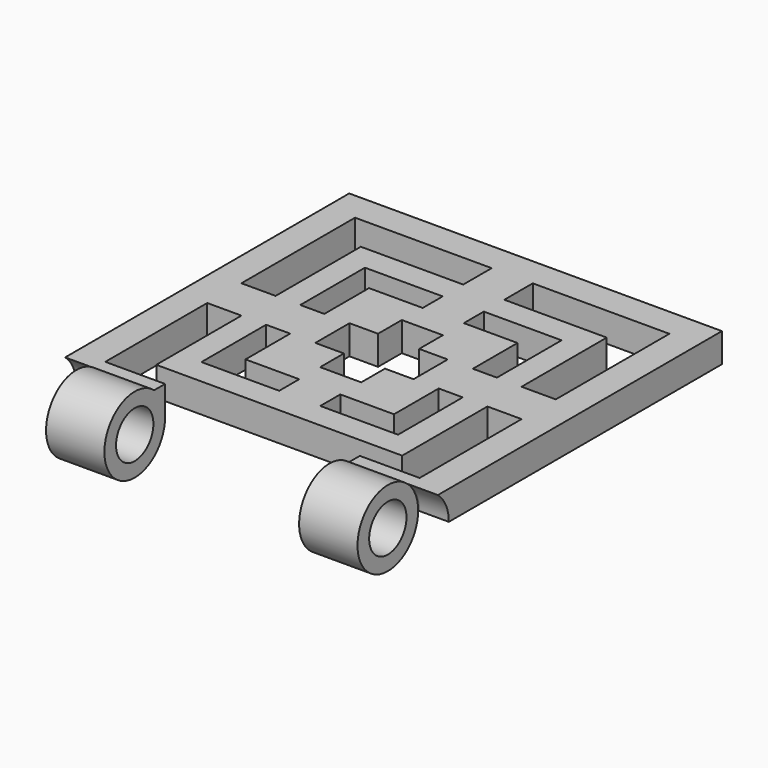
from build123d import *

# Parameters (mm, degrees)
F0_W      = 7.0402130931
F0_H      = 6.0935864692
F0_H_2    = 4.393223295
F0_W_2    = 4.2261239089
F0_H_3    = 7.3185805312
F0_W_3    = 4.3096756666
F0_H_4    = 4.4800786584
F0_H_5    = 4.2855439132
F0_W_4    = 5.8618125553
F0_W_5    = 4.1225401893
F0_W_6    = 4.8947411333
F0_H_6    = 5.0882773987
F1_DEPTH  = 5
F2_R      = 6.5
F2_R_2    = 4
F3_DEPTH  = 63.87
F4_R      = 6.5
F4_R_2    = 4
F5_DEPTH  = 5.25
F6_R      = 6.5
F6_R_2    = 4
F7_DEPTH  = 5.25
F9_R      = 6.5
F9_R_2    = 4
F10_DEPTH = 33.37
F12_DEPTH = 10.25
F14_DEPTH = 10.25


with BuildPart() as f1:
    # F0 (on Top) → F1 (new body)
    with BuildSketch(Plane.XY):
        Polygon((0, 61), (0, 0), (5, 0), (5, 24.3407097344), (5, 31.6592902656), (5, 56), (28.4148934534, 56), (35.4551065466, 56), (58.87, 56), (58.87, 31.6592902656), (58.87, 24.3407097344), (58.87, 0), (63.87, 0), (63.87, 61), align=None)
        Polygon((10.8618125553, 49.9064135308), (10.8618125553, 31.6592902656), (15.0879364642, 31.6592902656), (15.0879364642, 45.5131902358), (28.4148934534, 45.5131902358), (28.4148934534, 49.9064135308), align=None)
        with Locations((31.935, 52.9532067654)):
            Rectangle(F0_W, F0_H)
        Polygon((48.7820635358, 31.6592902656), (53.0081874447, 31.6592902656), (53.0081874447, 49.9064135308), (35.4551065466, 49.9064135308), (35.4551065466, 45.5131902358), (48.7820635358, 45.5131902358), align=None)
        with Locations((31.935, 47.7098018833)):
            Rectangle(F0_W, F0_H_2)
        with Locations((12.9748745097, 28)):
            Rectangle(F0_W_2, F0_H_3)
        Polygon((10.8618125553, 6.0935864692), (28.4148934534, 6.0935864692), (28.4148934534, 10.4868097642), (15.0879364642, 10.4868097642), (15.0879364642, 24.3407097344), (10.8618125553, 24.3407097344), align=None)
        with Locations((31.935, 8.2901981167)):
            Rectangle(F0_W, F0_H_2)
        Polygon((35.4551065466, 10.4868097642), (35.4551065466, 6.0935864692), (53.0081874447, 6.0935864692), (53.0081874447, 24.3407097344), (48.7820635358, 24.3407097344), (48.7820635358, 10.4868097642), align=None)
        with Locations((50.8951254903, 28)):
            Rectangle(F0_W_2, F0_H_3)
        Polygon((40.3498476799, 31.6592902656), (44.6595233465, 31.6592902656), (44.6595233465, 41.2276463227), (35.4551065466, 41.2276463227), (35.4551065466, 36.7475676643), (40.3498476799, 36.7475676643), align=None)
        with Locations((42.5046855132, 28)):
            Rectangle(F0_W_3, F0_H_3)
        Polygon((35.4551065466, 19.2524323357), (35.4551065466, 14.7723536773), (44.6595233465, 14.7723536773), (44.6595233465, 24.3407097344), (40.3498476799, 24.3407097344), (40.3498476799, 19.2524323357), align=None)
        Polygon((19.2104766535, 14.7723536773), (28.4148934534, 14.7723536773), (28.4148934534, 19.2524323357), (23.5201523201, 19.2524323357), (23.5201523201, 24.3407097344), (19.2104766535, 24.3407097344), align=None)
        with Locations((31.935, 17.0123930065)):
            Rectangle(F0_W, F0_H_4)
        with Locations((31.935, 12.6295817207)):
            Rectangle(F0_W, F0_H_5)
        with Locations((21.3653144868, 28)):
            Rectangle(F0_W_3, F0_H_3)
        Polygon((19.2104766535, 41.2276463227), (19.2104766535, 31.6592902656), (23.5201523201, 31.6592902656), (23.5201523201, 36.7475676643), (28.4148934534, 36.7475676643), (28.4148934534, 41.2276463227), align=None)
        with Locations((31.935, 38.9876069935)):
            Rectangle(F0_W, F0_H_4)
        with Locations((55.9390937224, 28)):
            Rectangle(F0_W_4, F0_H_3)
        with Locations((46.7207934411, 28)):
            Rectangle(F0_W_5, F0_H_3)
        with Locations((17.1492065589, 28)):
            Rectangle(F0_W_5, F0_H_3)
        with Locations((7.9309062776, 28)):
            Rectangle(F0_W_4, F0_H_3)
        with Locations((31.935, 43.3704182793)):
            Rectangle(F0_W, F0_H_5)
        with Locations((25.9675228868, 34.2034289649)):
            Rectangle(F0_W_6, F0_H_6)
        with Locations((37.9024771132, 34.2034289649)):
            Rectangle(F0_W_6, F0_H_6)
        with Locations((37.9024771132, 21.7965710351)):
            Rectangle(F0_W_6, F0_H_6)
        with Locations((25.9675228868, 21.7965710351)):
            Rectangle(F0_W_6, F0_H_6)
    extrude(amount=F1_DEPTH)

    # F2 (on face) → F3 (join, through all)
    with BuildSketch(Plane(origin=(0, 0, 0), x_dir=(0, -1, 0), z_dir=(-1, 0, 0))):
        with Locations((4, 0)):
            Circle(F2_R)
        with Locations((4, 0)):
            Circle(F2_R_2, mode=Mode.SUBTRACT)
    extrude(amount=-F3_DEPTH)

    # F4 (on face) → F5 (cut)
    with BuildSketch(Plane.YZ.offset(63.87)):
        with Locations((-4, 0)):
            Circle(F4_R)
        with Locations((-4, 0)):
            Circle(F4_R_2, mode=Mode.SUBTRACT)
    extrude(amount=-F5_DEPTH, mode=Mode.SUBTRACT)

    # F6 (on face) → F7 (cut)
    with BuildSketch(Plane(origin=(0, 0, 0), x_dir=(0, -1, 0), z_dir=(-1, 0, 0))):
        with Locations((4, 0)):
            Circle(F6_R)
        with Locations((4, 0)):
            Circle(F6_R_2, mode=Mode.SUBTRACT)
    extrude(amount=-F7_DEPTH, mode=Mode.SUBTRACT)

    # F9 (on offset) → F10 (cut)
    with BuildSketch(Plane(origin=(15.25, 0, 0), x_dir=(0, -1, 0), z_dir=(-1, 0, 0))):
        with Locations((4, 0)):
            Circle(F9_R)
        with Locations((4, 0)):
            Circle(F9_R_2, mode=Mode.SUBTRACT)
    extrude(amount=-F10_DEPTH, mode=Mode.SUBTRACT)

    # F11 (on face) → F12 (join)
    with BuildSketch(Plane(origin=(58.87, 0, 0), x_dir=(0, -1, 0), z_dir=(-1, 0, 0))):
        with BuildLine():
            ThreePointArc((-2.5, 0), (-1.884153616, 2.7616546168), (-0.1533119315, 5))
            Line((-0.1533119315, 5), (-2.5, 5))
            Line((-2.5, 5), (-2.5, 0))
        make_face()
    extrude(amount=F12_DEPTH)

    # F13 (on face) → F14 (join)
    with BuildSketch(Plane.YZ.offset(5)):
        with BuildLine():
            ThreePointArc((0.1533119315, 5), (1.884153616, 2.7616546168), (2.5, 0))
            Line((2.5, 0), (2.5, 5))
            Line((2.5, 5), (0.1533119315, 5))
        make_face()
    extrude(amount=F14_DEPTH)


solid = f1.part
